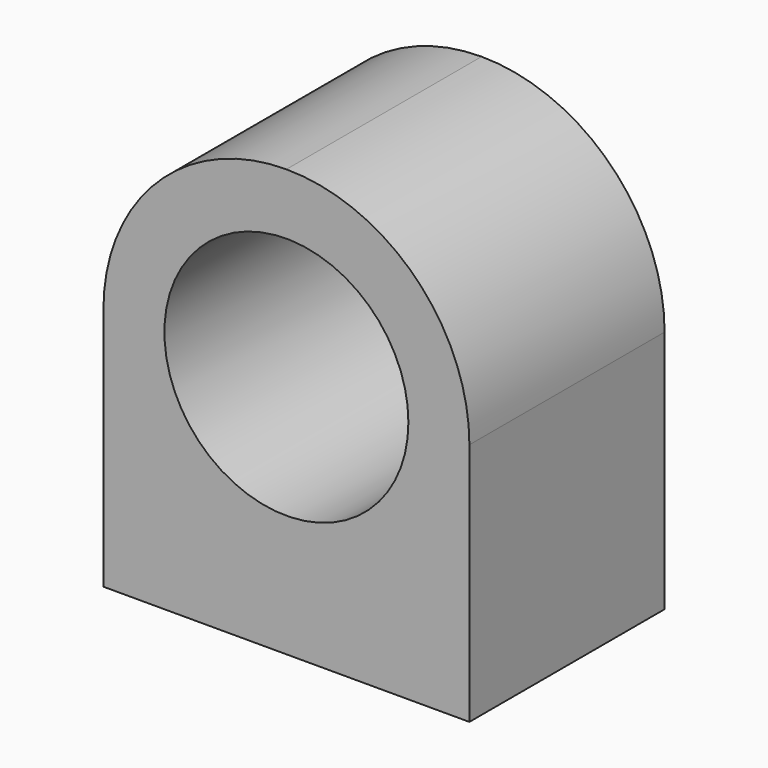
from build123d import *

# Parameters (mm, degrees)
F0_R     = 0.5
F1_DEPTH = 0.5
F2_R     = 0.125
F3_DEPTH = 0.5


with BuildPart() as f1:
    # F0 (on Front) → F1 (new body, symmetric)
    with BuildSketch(Plane.XZ):
        with BuildLine():
            Line((-0.75, 0), (0, 0))
            Line((0, 0), (0.75, 0))
            Line((0.75, 0), (0.75, 1))
            ThreePointArc((0.75, 1), (0.53033, 1.53033), (0, 1.75))
            ThreePointArc((0, 1.75), (-0.53033, 1.53033), (-0.75, 1))
            Line((-0.75, 1), (-0.75, 0))
        make_face()
        with Locations((0, 1)):
            Circle(F0_R, mode=Mode.SUBTRACT)
        with BuildLine():
            Line((-0.75, 0), (0, 0))
            Line((0, 0), (0.75, 0))
            Line((0.75, 0), (0.75, 1))
            ThreePointArc((0.75, 1), (0.53033, 1.53033), (0, 1.75))
            ThreePointArc((0, 1.75), (-0.53033, 1.53033), (-0.75, 1))
            Line((-0.75, 1), (-0.75, 0))
        make_face()
        with Locations((0, 1)):
            Circle(F0_R, mode=Mode.SUBTRACT)
    extrude(amount=F1_DEPTH, both=True)

    # F2 (on Top) → F3 (cut)
    with BuildSketch(Plane.XY):
        with Locations((-0.5, 0)):
            Circle(F2_R)
        with Locations((0.5, 0)):
            Circle(F2_R)
    extrude(amount=F3_DEPTH, mode=Mode.SUBTRACT)


solid = f1.part
